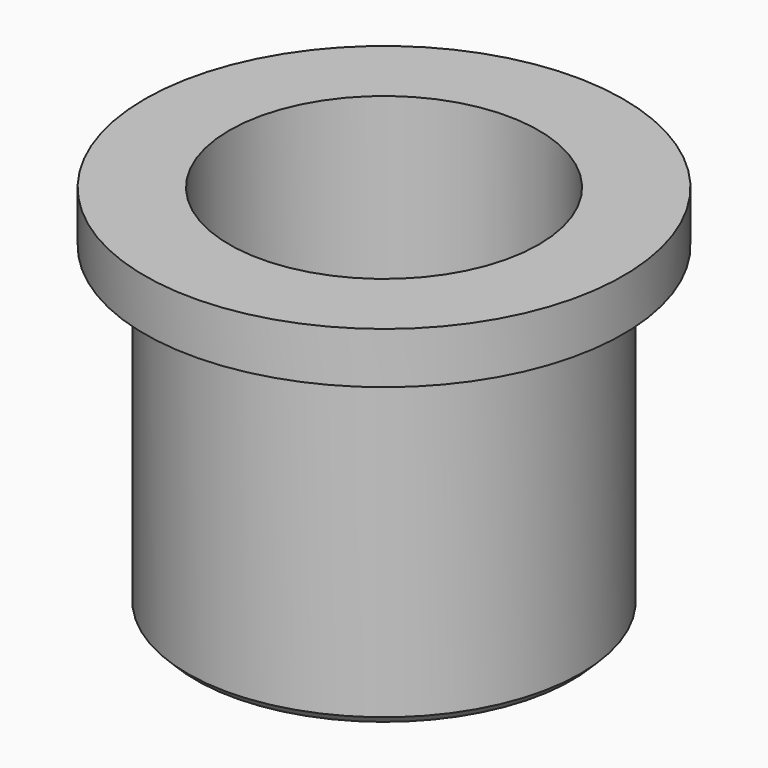
from build123d import *

# Parameters (mm, degrees)
F4_R    = 0.3
F5_SIZE = 0.5


with BuildPart() as f3:
    # F2 (on Front) → F3 (revolve)
    with BuildSketch(Plane.XZ):
        Polygon((-9.05, 21.8), (-14, 21.8), (-14, 18.8), (-11.5, 18.8), (-11.5, 0), (-9.05, 0), align=None)
    revolve(axis=Axis((0, 0, 10.9), (0, 0, 1)))

    # F4
    f4_edges = [f3.edges().sort_by_distance(p)[0] for p in [
        (11.5, 0, 18.8),
    ]]
    fillet(f4_edges, radius=F4_R)

    # F5
    f5_edges = [f3.edges().sort_by_distance(p)[0] for p in [
        (11.5, 0, 0),
    ]]
    chamfer(f5_edges, length=F5_SIZE)


solid = f3.part
